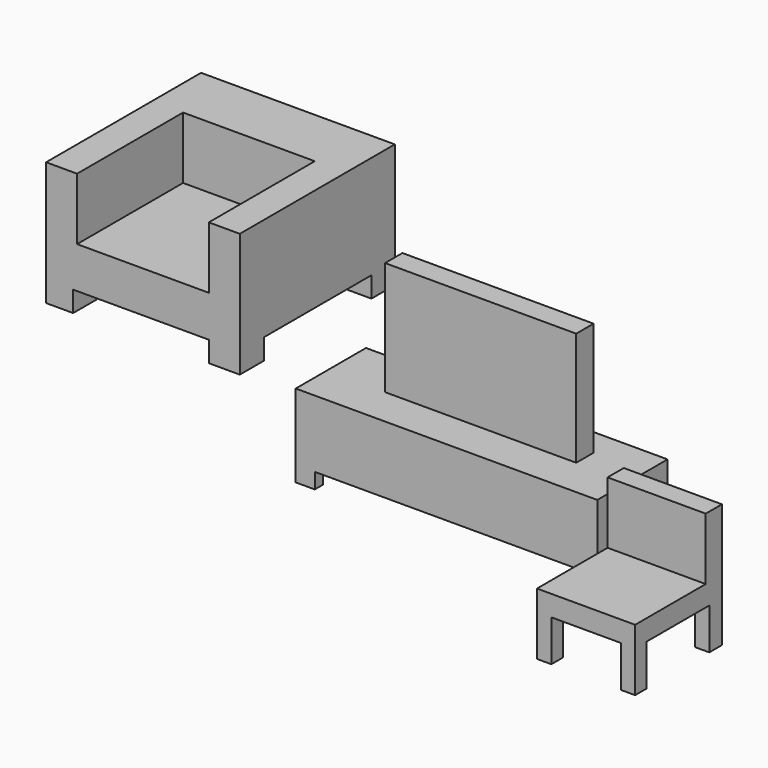
from build123d import *

# Parameters (mm, degrees)
F0_W      = 1482.725
F0_H      = 431.8
F1_DEPTH  = 406.4
F3_DEPTH  = 76.2
F4_W      = 482.6
F4_H      = 533.4
F5_DEPTH  = 609.6
F7_DEPTH  = 203.2
F8_W      = 482.6
F8_H      = 433.7946175819
F9_DEPTH  = 304.8
F10_W     = 939.8
F10_H     = 106.794739913
F11_DEPTH = 558.8
F12_W     = 952.5
F12_H     = 952.5
F13_DEPTH = 609.6
F14_W     = 647.7
F14_H     = 651.367831802
F15_DEPTH = 304.8
F17_DEPTH = 101.6


with BuildPart() as f1:
    # F0 (on Top) → F1 (new body)
    with BuildSketch(Plane.XY):
        Rectangle(F0_W, F0_H)
    extrude(amount=F1_DEPTH)

    # F2 (on face) → F3 (cut)
    with BuildSketch(Plane(origin=(0, 0, 0), x_dir=(1, 0, 0), z_dir=(0, 0, -1))):
        Polygon((647.6456522942, 166.6484028101), (647.6456522942, 215.9), (-647.6456522942, 215.9), (-647.6456522942, 166.6484028101), (-741.3625, 166.6484028101), (-741.3625, -166.6484028101), (-647.6456522942, -166.6484028101), (-647.6456522942, -215.9), (647.6456522942, -215.9), (647.6456522942, -166.6484028101), (741.3625, -166.6484028101), (741.3625, 166.6484028101), align=None)
    extrude(amount=-F3_DEPTH, mode=Mode.SUBTRACT)

    # F10 (on face) → F11 (join)
    with BuildSketch(Plane.XY.offset(406.4)):
        with Locations((15.2516663074, 28.1596258283)):
            Rectangle(F10_W, F10_H)
    extrude(amount=F11_DEPTH)


with BuildPart() as f5:
    # F4 (on Top) → F5 (new body)
    with BuildSketch(Plane.XY):
        with Locations((1140.1348749161, -516.7531962161)):
            Rectangle(F4_W, F4_H)
    extrude(amount=F5_DEPTH)

    # F6 (on face) → F7 (cut)
    with BuildSketch(Plane(origin=(0, 0, 0), x_dir=(1, 0, 0), z_dir=(0, 0, -1))):
        Polygon((1310.8453232765, 783.4531962161), (969.4244265556, 783.4531962161), (969.4244265556, 713.2931947708), (898.8348749161, 713.2931947708), (898.8348749161, 327.7447223663), (969.4244265556, 327.7447223663), (969.4244265556, 250.0531962161), (1310.8453232765, 250.0531962161), (1310.8453232765, 327.7447223663), (1381.4348749161, 327.7447223663), (1381.4348749161, 713.2931947708), (1310.8453232765, 713.2931947708), align=None)
    extrude(amount=-F7_DEPTH, mode=Mode.SUBTRACT)

    # F8 (on face) → F9 (cut)
    with BuildSketch(Plane.XY.offset(609.6)):
        with Locations((1140.1348749161, -566.5558874252)):
            Rectangle(F8_W, F8_H)
    extrude(amount=-F9_DEPTH, mode=Mode.SUBTRACT)


with BuildPart() as f13:
    # F12 (on Top) → F13 (new body)
    with BuildSketch(Plane.XY):
        with Locations((-1944.9963480612, 825.8598744869)):
            Rectangle(F12_W, F12_H)
    extrude(amount=F13_DEPTH)

    # F14 (on face) → F15 (cut)
    with BuildSketch(Plane.XY.offset(609.6)):
        with Locations((-1944.9963480612, 675.2937903879)):
            Rectangle(F14_W, F14_H)
    extrude(amount=-F15_DEPTH, mode=Mode.SUBTRACT)

    # F16 (on face) → F17 (cut)
    with BuildSketch(Plane(origin=(0, 0, 0), x_dir=(1, 0, 0), z_dir=(0, 0, -1))):
        Polygon((-1619.8850870132, -349.6098744869), (-2288.1369590759, -349.6098744869), (-2288.1369590759, -498.5591173172), (-2421.2463480612, -498.5591173172), (-2421.2463480612, -1158.8650941849), (-2288.1369590759, -1158.8650941849), (-2288.1369590759, -1302.1098744869), (-1619.8850870132, -1302.1098744869), (-1619.8850870132, -1158.8650941849), (-1468.7463480612, -1158.8650941849), (-1468.7463480612, -498.5591173172), (-1619.8850870132, -498.5591173172), align=None)
    extrude(amount=-F17_DEPTH, mode=Mode.SUBTRACT)


solid = Compound([f1.part, f5.part, f13.part])
